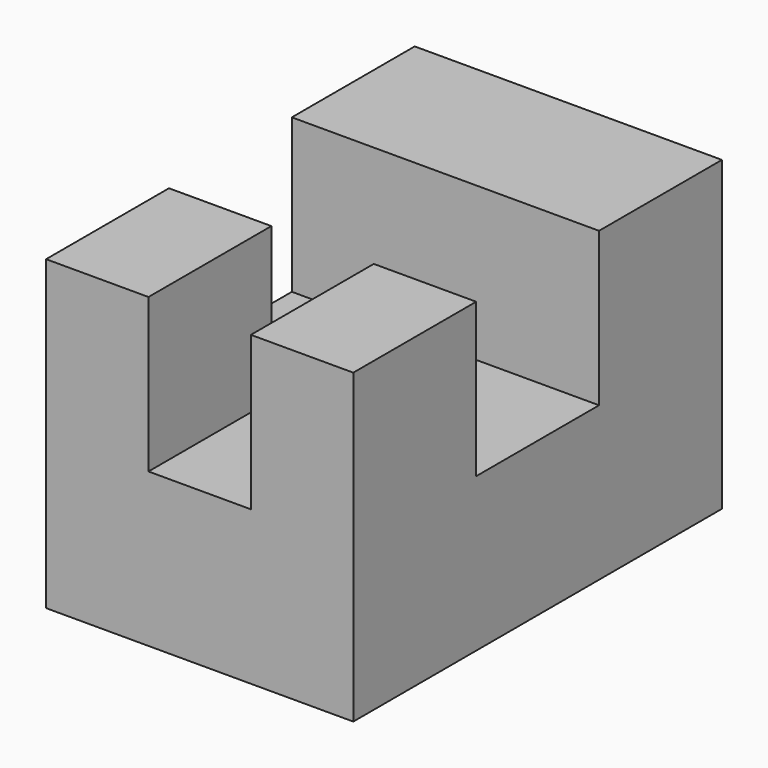
from build123d import *

# Parameters (mm, degrees)
F1_DEPTH = 76.2
F3_DEPTH = 38.1


with BuildPart() as f1:
    # F0 (on Top) → F1 (new body)
    with BuildSketch(Plane.XY):
        Polygon((38.325403, 64.675475), (-37.874597, 64.675475), (-37.874597, 26.575475), (-37.874597, -11.524525), (-37.874597, -49.624525), (-12.474597, -49.624525), (12.925403, -49.624525), (38.325403, -49.624525), (38.325403, -11.524525), (38.325403, 26.575475), align=None)
        Polygon((38.325403, 64.675475), (-37.874597, 64.675475), (-37.874597, 26.575475), (-37.874597, -11.524525), (-37.874597, -49.624525), (-12.474597, -49.624525), (12.925403, -49.624525), (38.325403, -49.624525), (38.325403, -11.524525), (38.325403, 26.575475), align=None)
        Polygon((38.325403, 64.675475), (-37.874597, 64.675475), (-37.874597, 26.575475), (-37.874597, -11.524525), (-37.874597, -49.624525), (-12.474597, -49.624525), (12.925403, -49.624525), (38.325403, -49.624525), (38.325403, -11.524525), (38.325403, 26.575475), align=None)
        Polygon((38.325403, 64.675475), (-37.874597, 64.675475), (-37.874597, 26.575475), (-37.874597, -11.524525), (-37.874597, -49.624525), (-12.474597, -49.624525), (12.925403, -49.624525), (38.325403, -49.624525), (38.325403, -11.524525), (38.325403, 26.575475), align=None)
    extrude(amount=F1_DEPTH)

    # F2 (on face) → F3 (cut)
    with BuildSketch(Plane.XY.offset(76.2)):
        Polygon((38.325403, 26.575475), (-37.874597, 26.575475), (-37.874597, -11.524525), (-12.474597, -11.524525), (-12.474597, -49.624525), (12.925403, -49.624525), (12.925403, -11.524525), (38.325403, -11.524525), align=None)
    extrude(amount=-F3_DEPTH, mode=Mode.SUBTRACT)


solid = f1.part
